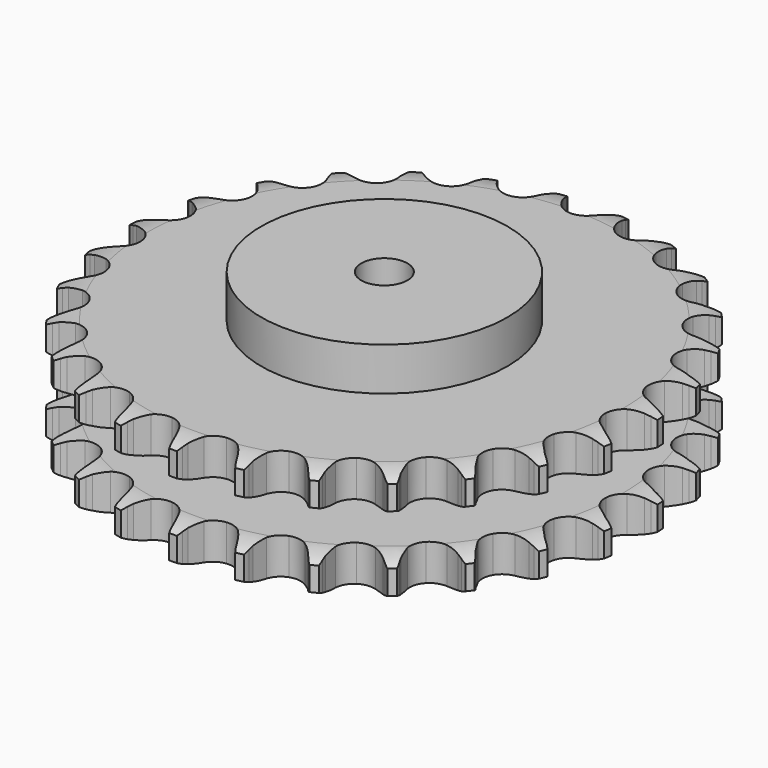
from build123d import *

# Parameters (mm, degrees)
PAD_DEPTH         = 72
SKETCH001_R       = 80
PAD001_DEPTH      = 100
SKETCH002_R       = 15
POCKET_DEPTH      = 0.001
POCKET_DEPTH_BACK = 100.001


with BuildPart() as part:
    # Sprocket → Pad (new body)
    with BuildSketch(Plane.XY):
        with BuildLine():
            ThreePointArc((-20.394811, 174.488762), (-17.806147, 171.233177), (-15.916075, 167.528095))
            Line((-15.916075, 167.528095), (-14.67916, 164.354966))
            ThreePointArc((-14.67916, 164.354966), (-12.715126, 160.195846), (-10.193855, 156.348912))
            ThreePointArc((-10.193855, 156.348912), (-5.689818, 152.625055), (0, 151.291102))
            ThreePointArc((0, 151.291102), (5.689818, 152.625055), (10.193855, 156.348912))
            ThreePointArc((10.193855, 156.348912), (12.715126, 160.195846), (14.67916, 164.354966))
            Line((14.67916, 164.354966), (15.916075, 167.528095))
            ThreePointArc((15.916075, 167.528095), (17.806147, 171.233177), (20.394811, 174.488762))
            ThreePointArc((20.394811, 174.488762), (22.162908, 170.723945), (23.147582, 166.682853))
            Line((23.147582, 166.682853), (23.619382, 163.310004))
            ThreePointArc((23.619382, 163.310004), (24.571316, 158.810056), (26.137462, 154.485372))
            ThreePointArc((26.137462, 154.485372), (29.661312, 149.823189), (34.890129, 147.213031))
            ThreePointArc((34.890129, 147.213031), (40.734208, 147.198865), (45.975619, 149.783642))
            Line((45.975619, 149.783642), (52.186345, 156.539509))
            ThreePointArc((52.186345, 156.539509), (53.117976, 157.965573), (54.121692, 159.341854))
            ThreePointArc((54.121692, 159.341854), (56.815268, 162.511185), (60.084944, 165.082027))
            ThreePointArc((60.084944, 165.082027), (60.937155, 161.010941), (60.963347, 156.851695))
            Line((60.963347, 156.851695), (60.644597, 153.460957))
            ThreePointArc((60.644597, 153.460957), (60.533112, 148.862775), (61.059702, 144.293485))
            ThreePointArc((61.059702, 144.293485), (63.413393, 138.944317), (67.899323, 135.198667))
            ThreePointArc((67.899323, 135.198667), (73.582607, 133.837145), (79.278825, 135.143497))
            Line((79.278825, 135.143497), (86.88015, 140.284967))
            ThreePointArc((86.88015, 140.284967), (88.115543, 141.457742), (89.409596, 142.565452))
            ThreePointArc((89.409596, 142.565452), (92.761464, 145.028172), (96.535882, 146.775678))
            ThreePointArc((96.535882, 146.775678), (96.426265, 142.617795), (95.492563, 138.564622))
            Line((95.492563, 138.564622), (94.400447, 135.33879))
            ThreePointArc((94.400447, 135.33879), (93.231553, 130.890263), (92.690198, 126.322699))
            ThreePointArc((92.690198, 126.322699), (93.746841, 120.57492), (97.248046, 115.895708))
            ThreePointArc((97.248046, 115.895708), (102.464148, 113.260231), (108.308089, 113.217732))
            Line((108.308089, 113.217732), (116.890225, 116.467626))
            ThreePointArc((116.890225, 116.467626), (118.362777, 117.323888), (119.877404, 118.10331))
            ThreePointArc((119.877404, 118.10331), (123.706865, 119.726653), (127.782546, 120.556614))
            ThreePointArc((127.782546, 120.556614), (126.717009, 116.536087), (124.873749, 112.807494))
            Line((124.873749, 112.807494), (123.067143, 109.920475))
            ThreePointArc((123.067143, 109.920475), (120.903856, 105.861423), (119.323741, 101.541823))
            ThreePointArc((119.323741, 101.541823), (119.026373, 95.705298), (121.354102, 90.344782))
            ThreePointArc((121.354102, 90.344782), (125.82182, 86.577428), (131.498436, 85.188369))
            Line((131.498436, 85.188369), (140.598716, 86.371485))
            ThreePointArc((140.598716, 86.371485), (142.229044, 86.865072), (143.882591, 87.274188))
            ThreePointArc((143.882591, 87.274188), (147.983197, 87.97064), (152.140419, 87.838312))
            ThreePointArc((152.140419, 87.838312), (150.176407, 84.171888), (147.52296, 80.968885))
            Line((147.52296, 80.968885), (145.099259, 78.576318))
            ThreePointArc((145.099259, 78.576318), (142.058202, 75.125567), (139.52451, 71.286802))
            ThreePointArc((139.52451, 71.286802), (137.889162, 65.676179), (138.917927, 59.923344))
            ThreePointArc((138.917927, 59.923344), (142.396406, 55.227214), (147.599669, 52.566479))
            Line((147.599669, 52.566479), (156.727495, 51.619035))
            ThreePointArc((156.727495, 51.619035), (158.427706, 51.723338), (160.13103, 51.740092))
            ThreePointArc((160.13103, 51.740092), (164.281716, 51.472106), (168.296363, 50.384624))
            ThreePointArc((168.296363, 50.384624), (165.539756, 47.269961), (162.219169, 44.765222))
            Line((162.219169, 44.765222), (159.309035, 42.996091))
            ThreePointArc((159.309035, 42.996091), (155.554152, 40.339672), (152.203476, 37.188691))
            ThreePointArc((152.203476, 37.188691), (149.318311, 32.10644), (148.992651, 26.271424))
            ThreePointArc((148.992651, 26.271424), (151.294364, 20.899686), (155.743765, 17.110716))
            Line((155.743765, 17.110716), (164.407054, 14.08379))
            ThreePointArc((164.407054, 14.08379), (166.085489, 13.793186), (167.746764, 13.416674))
            ThreePointArc((167.746764, 13.416674), (171.723766, 12.198698), (175.379407, 10.214687))
            ThreePointArc((175.379407, 10.214687), (171.978813, 7.819698), (168.170101, 6.148255))
            Line((168.170101, 6.148255), (164.93042, 5.097934))
            ThreePointArc((164.93042, 5.097934), (160.664139, 3.379054), (156.677114, 1.085728))
            ThreePointArc((156.677114, 1.085728), (152.697671, -3.194166), (151.035142, -8.796795))
            ThreePointArc((151.035142, -8.796795), (152.036004, -14.554549), (155.491674, -19.267489))
            Line((155.491674, -19.267489), (163.223386, -24.210717))
            ThreePointArc((163.223386, -24.210717), (164.789561, -24.880561), (166.319226, -25.63004))
            ThreePointArc((166.319226, -25.63004), (169.908143, -27.732346), (173.007701, -30.505926))
            ThreePointArc((173.007701, -30.505926), (169.146449, -32.052127), (165.054939, -32.800166))
            Line((165.054939, -32.800166), (161.660364, -33.075054))
            ThreePointArc((161.660364, -33.075054), (157.112679, -33.763729), (152.704248, -35.075767))
            ThreePointArc((152.704248, -35.075767), (147.84506, -38.322573), (144.935289, -43.390777))
            ThreePointArc((144.935289, -43.390777), (144.581344, -49.224145), (146.856987, -54.606979))
            Line((146.856987, -54.606979), (153.240303, -61.200017))
            ThreePointArc((153.240303, -61.200017), (154.609784, -62.21299), (155.925376, -63.295032))
            ThreePointArc((155.925376, -63.295032), (158.932728, -66.168331), (161.309106, -69.581956))
            ThreePointArc((161.309106, -69.581956), (157.195355, -70.196013), (153.041623, -69.980322))
            Line((153.041623, -69.980322), (149.675156, -69.464957))
            ThreePointArc((149.675156, -69.464957), (145.091235, -69.086301), (140.499057, -69.346319))
            ThreePointArc((140.499057, -69.346319), (135.022084, -71.385001), (131.021938, -75.645551))
            ThreePointArc((131.021938, -75.645551), (129.332266, -81.240054), (130.305202, -87.002593))
            Line((130.305202, -87.002593), (134.995996, -94.890008))
            ThreePointArc((134.995996, -94.890008), (136.094955, -96.191501), (137.125548, -97.547772))
            ThreePointArc((137.125548, -97.547772), (139.389208, -101.037164), (140.914295, -104.906805))
            ThreePointArc((140.914295, -104.906805), (136.769819, -104.555614), (132.777794, -103.387821))
            Line((132.777794, -103.387821), (129.620921, -102.109987))
            ThreePointArc((129.620921, -102.109987), (125.247885, -100.684412), (120.719525, -99.878392))
            ThreePointArc((120.719525, -99.878392), (114.920032, -100.599044), (110.04516, -103.822254))
            ThreePointArc((110.04516, -103.822254), (107.110852, -108.876291), (106.72863, -114.707875))
            Line((106.72863, -114.707875), (109.474019, -123.464455))
            ThreePointArc((109.474019, -123.464455), (110.243211, -124.984303), (110.933247, -126.541687))
            ThreePointArc((110.933247, -126.541687), (112.33118, -130.459058), (112.922757, -134.576102))
            ThreePointArc((112.922757, -134.576102), (108.970987, -133.278595), (105.355879, -131.221655))
            Line((105.355879, -131.221655), (102.578789, -129.25024))
            ThreePointArc((102.578789, -129.25024), (98.652388, -126.854601), (94.431972, -125.025996))
            ThreePointArc((94.431972, -125.025996), (88.622612, -124.389767), (83.135819, -126.401872))
            ThreePointArc((83.135819, -126.401872), (79.115064, -130.642979), (77.398289, -136.229225))
            Line((77.398289, -136.229225), (78.05027, -145.382901))
            ThreePointArc((78.05027, -145.382901), (78.448227, -147.039169), (78.760505, -148.713707))
            ThreePointArc((78.760505, -148.713707), (79.217349, -152.84787), (78.843525, -156.990365))
            ThreePointArc((78.843525, -156.990365), (75.297501, -154.816492), (72.254201, -151.981296))
            Line((72.254201, -151.981296), (70.006607, -149.42258))
            ThreePointArc((70.006607, -149.42258), (66.738516, -146.186025), (63.053567, -143.433415))
            ThreePointArc((63.053567, -143.433415), (57.547523, -141.474606), (51.744605, -142.167132))
            ThreePointArc((51.744605, -142.167132), (46.854163, -145.36667), (43.895387, -150.406423))
            Line((43.895387, -150.406423), (42.418811, -159.463717))
            ThreePointArc((42.418811, -159.463717), (42.424079, -161.167116), (42.341765, -162.868532))
            ThreePointArc((42.341765, -162.868532), (41.832891, -166.996614), (40.513818, -170.941238))
            ThreePointArc((40.513818, -170.941238), (37.564707, -168.008192), (35.257281, -164.547586))
            Line((35.257281, -164.547586), (33.660352, -161.53951))
            ThreePointArc((33.660352, -161.53951), (31.226754, -157.636523), (28.275928, -154.108302))
            ThreePointArc((28.275928, -154.108302), (23.370033, -150.932511), (17.563825, -150.268126))
            ThreePointArc((17.563825, -150.268126), (12.067342, -152.253607), (8.026073, -156.475171))
            Line((8.026073, -156.475171), (4.500542, -164.947803))
            ThreePointArc((4.500542, -164.947803), (4.112837, -166.606501), (3.640369, -168.243073))
            ThreePointArc((3.640369, -168.243073), (2.19321, -172.142527), (0, -175.676624))
            ThreePointArc((0, -175.676624), (-2.19321, -172.142527), (-3.640369, -168.243073))
            Line((-3.640369, -168.243073), (-4.500542, -164.947803))
            ThreePointArc((-4.500542, -164.947803), (-5.968452, -160.588795), (-8.026073, -156.475171))
            ThreePointArc((-8.026073, -156.475171), (-12.067342, -152.253607), (-17.563825, -150.268126))
            ThreePointArc((-17.563825, -150.268126), (-23.370033, -150.932511), (-28.275928, -154.108302))
            Line((-28.275928, -154.108302), (-33.660352, -161.53951))
            ThreePointArc((-33.660352, -161.53951), (-34.420128, -163.064087), (-35.257281, -164.547586))
            ThreePointArc((-35.257281, -164.547586), (-37.564707, -168.008192), (-40.513818, -170.941238))
            ThreePointArc((-40.513818, -170.941238), (-41.832891, -166.996614), (-42.341765, -162.868532))
            Line((-42.341765, -162.868532), (-42.418811, -159.463717))
            ThreePointArc((-42.418811, -159.463717), (-42.841896, -154.883683), (-43.895387, -150.406423))
            ThreePointArc((-43.895387, -150.406423), (-46.854163, -145.36667), (-51.744605, -142.167132))
            ThreePointArc((-51.744605, -142.167132), (-57.547523, -141.474606), (-63.053567, -143.433415))
            Line((-63.053567, -143.433415), (-70.006607, -149.42258))
            ThreePointArc((-70.006607, -149.42258), (-71.097495, -150.730845), (-72.254201, -151.981296))
            ThreePointArc((-72.254201, -151.981296), (-75.297501, -154.816492), (-78.843525, -156.990365))
            ThreePointArc((-78.843525, -156.990365), (-79.217349, -152.84787), (-78.760505, -148.713707))
            Line((-78.760505, -148.713707), (-78.05027, -145.382901))
            ThreePointArc((-78.05027, -145.382901), (-77.405723, -140.828753), (-77.398289, -136.229225))
            ThreePointArc((-77.398289, -136.229225), (-79.115064, -130.642979), (-83.135819, -126.401872))
            ThreePointArc((-83.135819, -126.401872), (-88.622612, -124.389767), (-94.431972, -125.025996))
            Line((-94.431972, -125.025996), (-102.578789, -129.25024))
            ThreePointArc((-102.578789, -129.25024), (-103.941978, -130.271665), (-105.355879, -131.221655))
            ThreePointArc((-105.355879, -131.221655), (-108.970987, -133.278595), (-112.922757, -134.576102))
            ThreePointArc((-112.922757, -134.576102), (-112.33118, -130.459058), (-110.933247, -126.541687))
            Line((-110.933247, -126.541687), (-109.474019, -123.464455))
            ThreePointArc((-109.474019, -123.464455), (-107.796587, -119.181707), (-106.72863, -114.707875))
            ThreePointArc((-106.72863, -114.707875), (-107.110852, -108.876291), (-110.04516, -103.822254))
            ThreePointArc((-110.04516, -103.822254), (-114.920032, -100.599044), (-120.719525, -99.878392))
            Line((-120.719525, -99.878392), (-129.620921, -102.109987))
            ThreePointArc((-129.620921, -102.109987), (-131.182922, -102.789506), (-132.777794, -103.387821))
            ThreePointArc((-132.777794, -103.387821), (-136.769819, -104.555614), (-140.914295, -104.906805))
            ThreePointArc((-140.914295, -104.906805), (-139.389208, -101.037164), (-137.125548, -97.547772))
            Line((-137.125548, -97.547772), (-134.995996, -94.890008))
            ThreePointArc((-134.995996, -94.890008), (-132.376109, -91.109545), (-130.305202, -87.002593))
            ThreePointArc((-130.305202, -87.002593), (-129.332266, -81.240054), (-131.021938, -75.645551))
            ThreePointArc((-131.021938, -75.645551), (-135.022084, -71.385001), (-140.499057, -69.346319))
            Line((-140.499057, -69.346319), (-149.675156, -69.464957))
            ThreePointArc((-149.675156, -69.464957), (-151.351761, -69.765937), (-153.041623, -69.980322))
            ThreePointArc((-153.041623, -69.980322), (-157.195355, -70.196013), (-161.309106, -69.581956))
            ThreePointArc((-161.309106, -69.581956), (-158.932728, -66.168331), (-155.925376, -63.295032))
            Line((-155.925376, -63.295032), (-153.240303, -61.200017))
            ThreePointArc((-153.240303, -61.200017), (-149.819201, -58.125644), (-146.856987, -54.606979))
            ThreePointArc((-146.856987, -54.606979), (-144.581344, -49.224145), (-144.935289, -43.390777))
            ThreePointArc((-144.935289, -43.390777), (-147.84506, -38.322573), (-152.704248, -35.075767))
            Line((-152.704248, -35.075767), (-161.660364, -33.075054))
            ThreePointArc((-161.660364, -33.075054), (-163.361187, -32.981269), (-165.054939, -32.800166))
            ThreePointArc((-165.054939, -32.800166), (-169.146449, -32.052127), (-173.007701, -30.505926))
            ThreePointArc((-173.007701, -30.505926), (-169.908143, -27.732346), (-166.319226, -25.63004))
            Line((-166.319226, -25.63004), (-163.223386, -24.210717))
            ThreePointArc((-163.223386, -24.210717), (-159.185501, -22.008174), (-155.491674, -19.267489))
            ThreePointArc((-155.491674, -19.267489), (-152.036004, -14.554549), (-151.035142, -8.796795))
            ThreePointArc((-151.035142, -8.796795), (-152.697671, -3.194166), (-156.677114, 1.085728))
            Line((-156.677114, 1.085728), (-164.93042, 5.097934))
            ThreePointArc((-164.93042, 5.097934), (-166.563769, 5.581427), (-168.170101, 6.148255))
            ThreePointArc((-168.170101, 6.148255), (-171.978813, 7.819698), (-175.379407, 10.214687))
            ThreePointArc((-175.379407, 10.214687), (-171.723766, 12.198698), (-167.746764, 13.416674))
            Line((-167.746764, 13.416674), (-164.407054, 14.08379))
            ThreePointArc((-164.407054, 14.08379), (-159.970069, 15.295762), (-155.743765, 17.110716))
            ThreePointArc((-155.743765, 17.110716), (-151.294364, 20.899686), (-148.992651, 26.271424))
            ThreePointArc((-148.992651, 26.271424), (-149.318311, 32.10644), (-152.203476, 37.188691))
            Line((-152.203476, 37.188691), (-159.309035, 42.996091))
            ThreePointArc((-159.309035, 42.996091), (-160.786856, 43.843228), (-162.219169, 44.765222))
            ThreePointArc((-162.219169, 44.765222), (-165.539756, 47.269961), (-168.296363, 50.384624))
            ThreePointArc((-168.296363, 50.384624), (-164.281716, 51.472106), (-160.13103, 51.740092))
            Line((-160.13103, 51.740092), (-156.727495, 51.619035))
            ThreePointArc((-156.727495, 51.619035), (-152.13061, 51.775099), (-147.599669, 52.566479))
            ThreePointArc((-147.599669, 52.566479), (-142.396406, 55.227214), (-138.917927, 59.923344))
            ThreePointArc((-138.917927, 59.923344), (-137.889162, 65.676179), (-139.52451, 71.286802))
            Line((-139.52451, 71.286802), (-145.099259, 78.576318))
            ThreePointArc((-145.099259, 78.576318), (-146.341881, 79.741429), (-147.52296, 80.968885))
            ThreePointArc((-147.52296, 80.968885), (-150.176407, 84.171888), (-152.140419, 87.838312))
            ThreePointArc((-152.140419, 87.838312), (-147.983197, 87.97064), (-143.882591, 87.274188))
            Line((-143.882591, 87.274188), (-140.598716, 86.371485))
            ThreePointArc((-140.598716, 86.371485), (-136.08975, 85.463228), (-131.498436, 85.188369))
            ThreePointArc((-131.498436, 85.188369), (-125.82182, 86.577428), (-121.354102, 90.344782))
            ThreePointArc((-121.354102, 90.344782), (-119.026373, 95.705298), (-119.323741, 101.541823))
            Line((-119.323741, 101.541823), (-123.067143, 109.920475))
            ThreePointArc((-123.067143, 109.920475), (-124.007578, 111.340749), (-124.873749, 112.807494))
            ThreePointArc((-124.873749, 112.807494), (-126.717009, 116.536087), (-127.782546, 120.556614))
            ThreePointArc((-127.782546, 120.556614), (-123.706865, 119.726653), (-119.877404, 118.10331))
            Line((-119.877404, 118.10331), (-116.890225, 116.467626))
            ThreePointArc((-116.890225, 116.467626), (-112.712257, 114.544012), (-108.308089, 113.217732))
            ThreePointArc((-108.308089, 113.217732), (-102.464148, 113.260231), (-97.248046, 115.895708))
            ThreePointArc((-97.248046, 115.895708), (-93.746841, 120.57492), (-92.690198, 126.322699))
            Line((-92.690198, 126.322699), (-94.400447, 135.33879))
            ThreePointArc((-94.400447, 135.33879), (-94.987994, 136.93766), (-95.492563, 138.564622))
            ThreePointArc((-95.492563, 138.564622), (-96.426265, 142.617795), (-96.535882, 146.775678))
            ThreePointArc((-96.535882, 146.775678), (-92.761464, 145.028172), (-89.409596, 142.565452))
            Line((-89.409596, 142.565452), (-86.88015, 140.284967))
            ThreePointArc((-86.88015, 140.284967), (-83.258416, 137.449698), (-79.278825, 135.143497))
            ThreePointArc((-79.278825, 135.143497), (-73.582607, 133.837145), (-67.899323, 135.198667))
            ThreePointArc((-67.899323, 135.198667), (-63.413393, 138.944317), (-61.059702, 144.293485))
            Line((-61.059702, 144.293485), (-60.644597, 153.460957))
            ThreePointArc((-60.644597, 153.460957), (-60.847582, 155.152226), (-60.963347, 156.851695))
            ThreePointArc((-60.963347, 156.851695), (-60.937155, 161.010941), (-60.084944, 165.082027))
            ThreePointArc((-60.084944, 165.082027), (-56.815268, 162.511185), (-54.121692, 159.341854))
            Line((-54.121692, 159.341854), (-52.186345, 156.539509))
            ThreePointArc((-52.186345, 156.539509), (-49.316093, 152.945436), (-45.975619, 149.783642))
            ThreePointArc((-45.975619, 149.783642), (-40.734208, 147.198865), (-34.890129, 147.213031))
            ThreePointArc((-34.890129, 147.213031), (-29.661312, 149.823189), (-26.137462, 154.485372))
            Line((-26.137462, 154.485372), (-23.619382, 163.310004))
            ThreePointArc((-23.619382, 163.310004), (-23.426862, 165.002496), (-23.147582, 166.682853))
            ThreePointArc((-23.147582, 166.682853), (-22.162908, 170.723945), (-20.394811, 174.488762))
        make_face()
    extrude(amount=PAD_DEPTH)

    # Sketch → Groove (revolve, cut)
    with BuildSketch(Plane.XZ):
        with BuildLine():
            ThreePointArc((154.629437, 0), (163.347235, 1.013516), (171.6, 4))
            Line((171.6, 4), (171.6, 19.6))
            ThreePointArc((171.6, 19.6), (163.347235, 22.586484), (154.629437, 23.6))
            Line((80, 23.6), (154.629437, 23.6))
            Line((80, 48.4), (80, 23.6))
            Line((154.629437, 48.4), (80, 48.4))
            ThreePointArc((154.629437, 48.4), (163.347235, 49.413516), (171.6, 52.4))
            Line((171.6, 52.4), (171.6, 68))
            ThreePointArc((171.6, 68), (163.347235, 70.986484), (154.629437, 72))
            Line((154.629437, 72), (181.6, 72))
            Line((181.6, 72), (181.6, 0))
            Line((154.629437, 0), (181.6, 0))
        make_face()
    revolve(axis=Axis((0, 0, 0), (0, 0, 1)), mode=Mode.SUBTRACT)

    # Sketch001 → Pad001 (join)
    with BuildSketch(Plane.XY):
        Circle(SKETCH001_R)
    extrude(amount=PAD001_DEPTH)

    # Sketch002 → Pocket (cut, two sides)
    with BuildSketch(Plane.XY) as pocket_sk:
        Circle(SKETCH002_R)
    extrude(amount=-POCKET_DEPTH, mode=Mode.SUBTRACT)
    extrude(pocket_sk.sketch, amount=POCKET_DEPTH_BACK, mode=Mode.SUBTRACT)


solid = part.part
